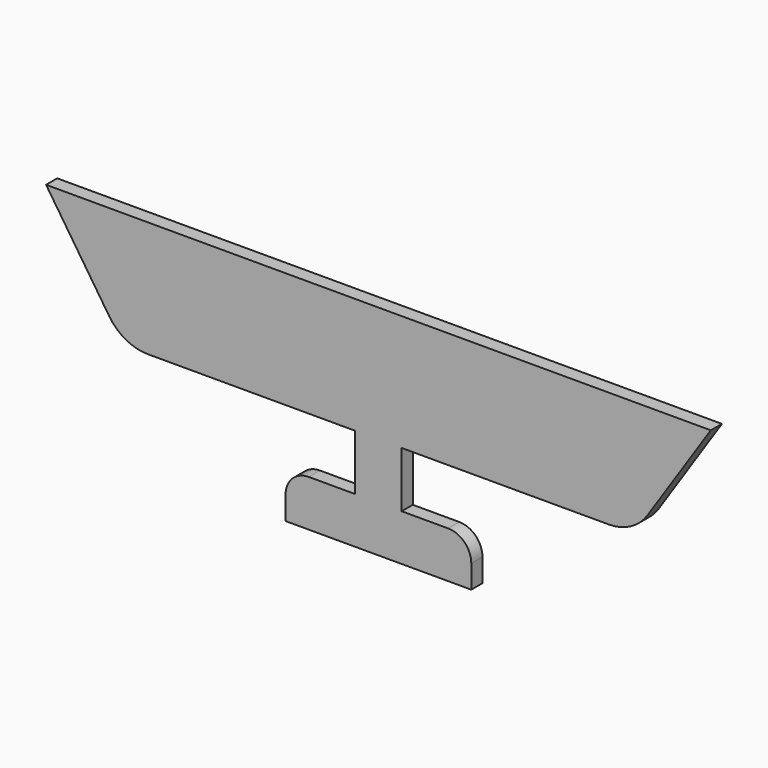
from build123d import *

# Parameters (mm, degrees)
F1_DEPTH = 3
F2_R     = 5
F3_R     = 5
F4_R     = 10
F5_R     = 10


with BuildPart() as f1:
    # F0 (on Front) → F1 (new body)
    with BuildSketch(Plane.XZ):
        Polygon((-50, 0), (0, 0), (0, -12), (-15, -12), (-15, -22), (25, -22), (25, -12), (10, -12), (10, 0), (60, 0), (76.583124, 25), (-66.583124, 25), align=None)
    extrude(amount=F1_DEPTH)

    # F2
    f2_edges = [f1.edges().sort_by_distance(p)[0] for p in [
        (25, -1.5, -12),
    ]]
    fillet(f2_edges, radius=F2_R)

    # F3
    f3_edges = [f1.edges().sort_by_distance(p)[0] for p in [
        (-15, -1.5, -12),
    ]]
    fillet(f3_edges, radius=F3_R)

    # F4
    f4_edges = [f1.edges().sort_by_distance(p)[0] for p in [
        (60, -1.5, 0),
    ]]
    fillet(f4_edges, radius=F4_R)

    # F5
    f5_edges = [f1.edges().sort_by_distance(p)[0] for p in [
        (-50, -1.5, 0),
    ]]
    fillet(f5_edges, radius=F5_R)


solid = f1.part
